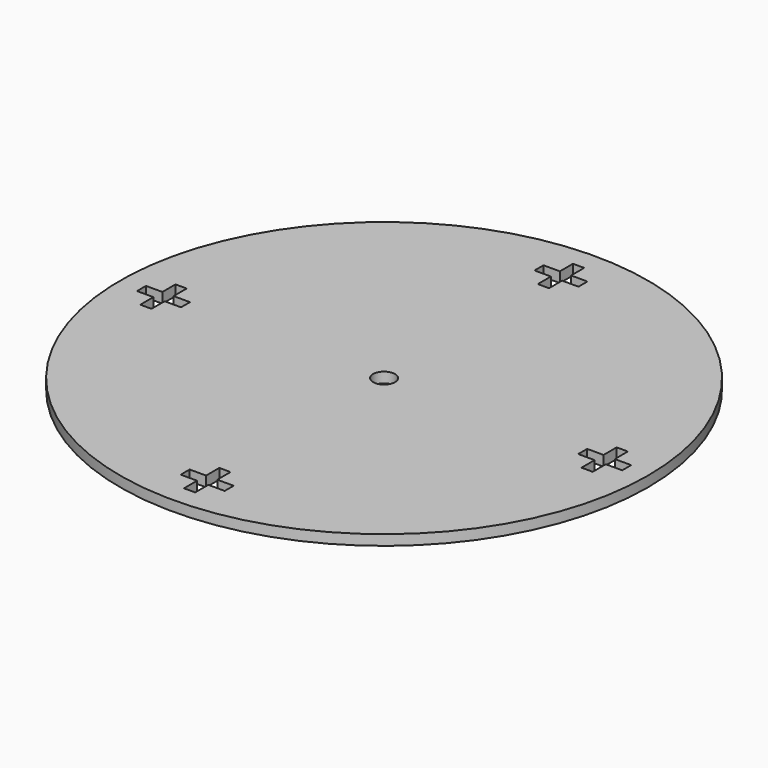
from build123d import *

# Parameters (mm, degrees)
F0_R     = 304.8
F0_R_2   = 12.7
F1_DEPTH = 11.938
F3_DEPTH = 25.4


with BuildPart() as f1:
    # F0 (on Top) → F1 (new body)
    with BuildSketch(Plane.XY):
        Circle(F0_R)
        Circle(F0_R_2, mode=Mode.SUBTRACT)
    extrude(amount=F1_DEPTH)

    # F2 (on face) → F3 (cut)
    with BuildSketch(Plane(origin=(0, 0, 0), x_dir=(1, 0, 0), z_dir=(0, 0, -1))):
        Polygon((-229.3366, -5.9817), (-229.3366, 5.9817), (-229.3366, 6.477), (-248.2596, 6.477), (-248.2596, 25.4), (-248.7549, 25.4), (-260.7183, 25.4), (-261.2136, 25.4), (-261.2136, 6.477), (-280.1366, 6.477), (-280.1366, 5.9817), (-280.1366, -5.9817), (-280.1366, -6.477), (-261.2136, -6.477), (-261.2136, -25.4), (-260.7183, -25.4), (-248.7549, -25.4), (-248.2596, -25.4), (-248.2596, -6.477), (-229.3366, -6.477), align=None)
        Polygon((-6.477001, -229.949022), (-6.477001, -248.872022), (-25.400001, -248.872022), (-25.400001, -261.826022), (-6.477001, -261.826022), (-6.477001, -280.749022), (-5.981701, -280.749022), (5.981699, -280.749022), (6.476999, -280.749022), (6.476999, -261.826022), (25.399999, -261.826022), (25.399999, -248.872022), (6.476999, -248.872022), (6.476999, -229.949022), (5.981699, -229.949022), (-5.981701, -229.949022), align=None)
        Polygon((260.743621, 25.4), (248.780221, 25.4), (248.2596, 25.4), (248.2596, 6.477), (229.3366, 6.477), (229.3366, 5.9817), (229.3366, -5.9817), (229.3366, -6.477), (248.2596, -6.477), (248.2596, -25.4), (248.780221, -25.4), (260.743621, -25.4), (261.2136, -25.4), (261.2136, -6.477), (280.1366, -6.477), (280.161921, -5.9817), (280.161921, 5.9817), (280.1366, 6.477), (261.2136, 6.477), (261.2136, 25.4), align=None)
        Polygon((-6.477, 229.76689), (-5.799568, 229.76689), (6.163832, 229.76689), (6.477105, 229.76689), (6.477105, 229.949022), (6.477105, 248.872022), (25.4, 248.872022), (25.4, 261.826022), (6.477, 261.826022), (6.477, 280.749022), (5.9817, 280.749022), (-5.9817, 280.749022), (-6.477, 280.749022), (-6.477, 261.826022), (-25.4, 261.826022), (-25.4, 248.872022), (-6.477, 248.872022), (-6.477, 229.949022), align=None)
    extrude(amount=-F3_DEPTH, mode=Mode.SUBTRACT)


solid = f1.part
